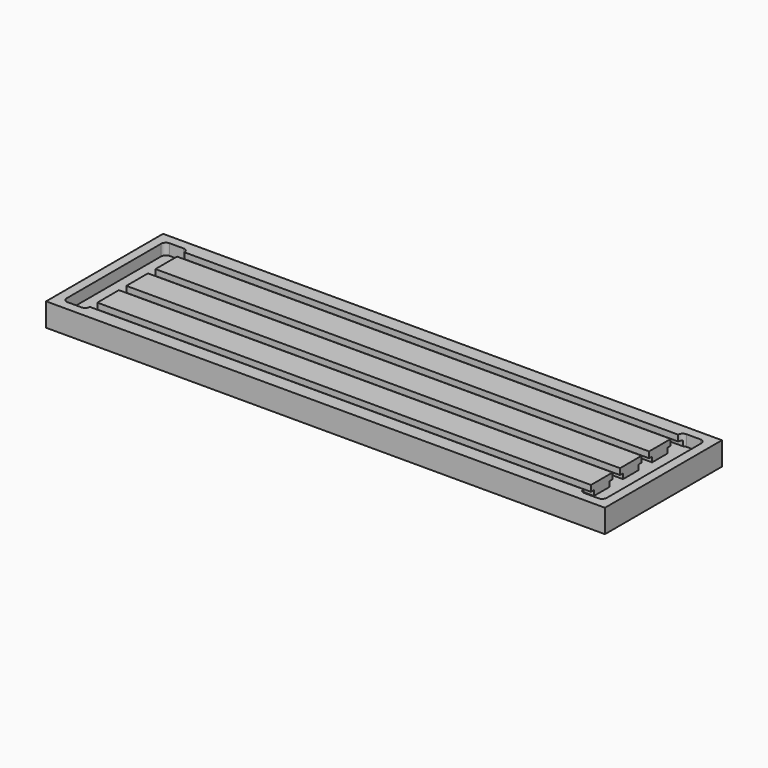
from build123d import *

# Parameters (mm, degrees)
F0_W     = 600
F0_H     = 157
F1_DEPTH = 25
F3_DEPTH = 12
F5_DEPTH = 545
F6_DEPTH = 16


with BuildPart() as f1:
    # F0 (on Top) → F1 (new body)
    with BuildSketch(Plane.XY):
        with Locations((0, 23.160652)):
            Rectangle(F0_W, F0_H)
    extrude(amount=F1_DEPTH)

    # F2 (on face) → F3 (cut)
    with BuildSketch(Plane.XY.offset(25)):
        with BuildLine():
            Line((-270, 91.660652), (-285, 91.660652))
            ThreePointArc((-285, 91.660652), (-288.535534, 90.196186), (-290, 86.660652))
            Line((-290, 86.660652), (-290, -40.339348))
            ThreePointArc((-290, -40.339348), (-288.535534, -43.874882), (-285, -45.339348))
            Line((-285, -45.339348), (-270, -45.339348))
            ThreePointArc((-270, -45.339348), (-266.464466, -43.874882), (-265, -40.339348))
            Line((-265, -40.339348), (-265, 86.660652))
            ThreePointArc((-265, 86.660652), (-266.464466, 90.196186), (-270, 91.660652))
        make_face()
        with BuildLine():
            ThreePointArc((285, -45.339348), (288.535534, -43.874882), (290, -40.339348))
            Line((290, -40.339348), (290, 86.660652))
            ThreePointArc((290, 86.660652), (288.535534, 90.196186), (285, 91.660652))
            Line((285, 91.660652), (270, 91.660652))
            ThreePointArc((270, 91.660652), (266.464466, 90.196186), (265, 86.660652))
            Line((265, 86.660652), (265, -40.339348))
            ThreePointArc((265, -40.339348), (266.464466, -43.874882), (270, -45.339348))
            Line((270, -45.339348), (285, -45.339348))
        make_face()
    extrude(amount=-F3_DEPTH, mode=Mode.SUBTRACT)

    # F4 (on face) → F5 (cut)
    with BuildSketch(Plane.YZ.offset(265)):
        Polygon((-30.339348, 25), (-40.339348, 25), (-40.339348, 18.5), (-44.339348, 18.5), (-44.339348, 13), (-26.339348, 13), (-26.339348, 18.5), (-30.339348, 18.5), align=None)
        Polygon((-1.339348, 25), (-1.339348, 18.5), (-5.339348, 18.5), (-5.339348, 13), (12.660652, 13), (12.660652, 18.5), (8.660652, 18.5), (8.660652, 25), align=None)
        Polygon((37.660652, 25), (37.660652, 18.5), (33.660652, 18.5), (33.660652, 13), (51.660652, 13), (51.660652, 18.5), (47.660652, 18.5), (47.660652, 25), align=None)
        Polygon((76.660652, 25), (76.660652, 18.5), (72.660652, 18.5), (72.660652, 13), (90.660652, 13), (90.660652, 18.5), (86.660652, 18.5), (86.660652, 25), align=None)
    extrude(amount=-F5_DEPTH, mode=Mode.SUBTRACT)

    # F4 (on face) → F6 (cut)
    with BuildSketch(Plane.YZ.offset(265)):
        Polygon((-30.339348, 25), (-40.339348, 25), (-40.339348, 18.5), (-44.339348, 18.5), (-44.339348, 13), (-26.339348, 13), (-26.339348, 18.5), (-30.339348, 18.5), align=None)
        Polygon((-1.339348, 25), (-1.339348, 18.5), (-5.339348, 18.5), (-5.339348, 13), (12.660652, 13), (12.660652, 18.5), (8.660652, 18.5), (8.660652, 25), align=None)
        Polygon((37.660652, 25), (37.660652, 18.5), (33.660652, 18.5), (33.660652, 13), (51.660652, 13), (51.660652, 18.5), (47.660652, 18.5), (47.660652, 25), align=None)
        Polygon((76.660652, 25), (76.660652, 18.5), (72.660652, 18.5), (72.660652, 13), (90.660652, 13), (90.660652, 18.5), (86.660652, 18.5), (86.660652, 25), align=None)
    extrude(amount=F6_DEPTH, mode=Mode.SUBTRACT)


solid = f1.part
